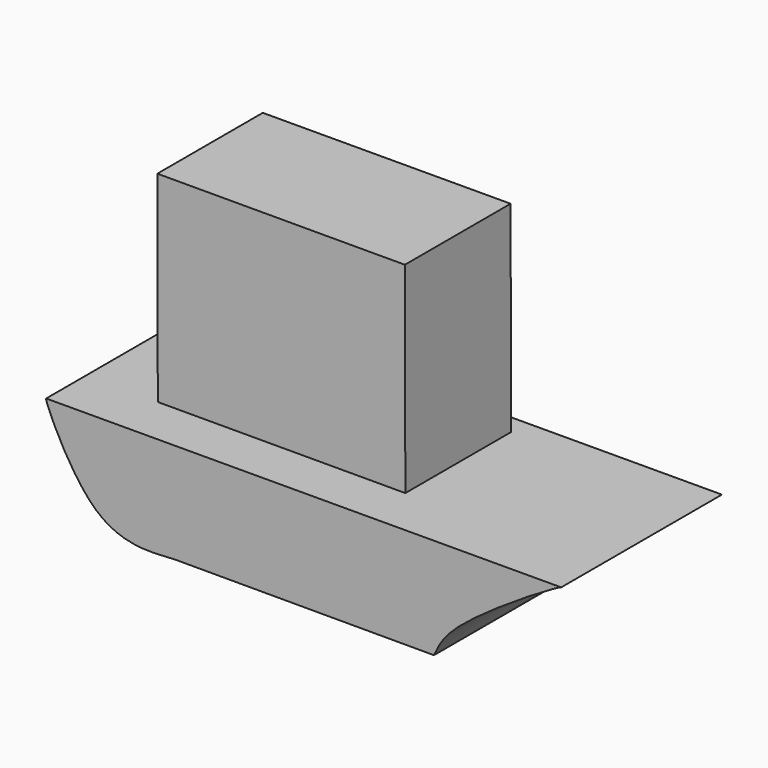
from build123d import *

# Parameters (mm, degrees)
F1_DEPTH = 50.8
F3_DEPTH = 50.8


with BuildPart() as f1:
    # F0 (on Front) → F1 (new body)
    with BuildSketch(Plane.XZ):
        with BuildLine():
            add(Edge.make_bspline(
                [(-29.7781582922, -30.0789475441), (-36.7842670513, -30.5580989467), (-51.3494862757, -31.5542218247), (-62.8027473228, -5.4029227597), (-62.586013184, -4.866588529), (-62.5642091036, -4.8126317561)],
                knots=[0, 0, 0, 0, 0.454624762, 0.9451336756, 1, 1, 1, 1], degree=3))
            Line((-29.7781582922, -30.0789475441), (35.493157804, -30.0789475441))
            add(Edge.make_bspline(
                [(35.493157804, -30.0789475441), (36.6225724098, -27.6027136499), (39.6399191217, -20.9872013658), (65.7050289835, -5.1344318103), (67.6754134293, -4.5125402265)],
                knots=[0, 0, 0, 0, 0.3523632952, 0.9413746066, 0.9413746066, 0.9413746066, 0.9413746066], degree=3))
            Line((67.6754134293, -4.5125402265), (-62.5642091036, -4.8126317561))
        make_face()
    extrude(amount=F1_DEPTH)

    # F2 (on face) → F3 (join)
    with BuildSketch(Plane(origin=(0.0107568049, 0, -4.6684496948), x_dir=(0.9999973455, 0, 0.0023041431), z_dir=(-0.0023041431, 0, 0.9999973455))):
        Polygon((-44.3633496761, -38.2793173194), (18.3098316193, -38.3782871068), (18.3098316193, -4.9574165605), (-44.3633496761, -4.9574165605), align=None)
    extrude(amount=F3_DEPTH)


solid = f1.part
